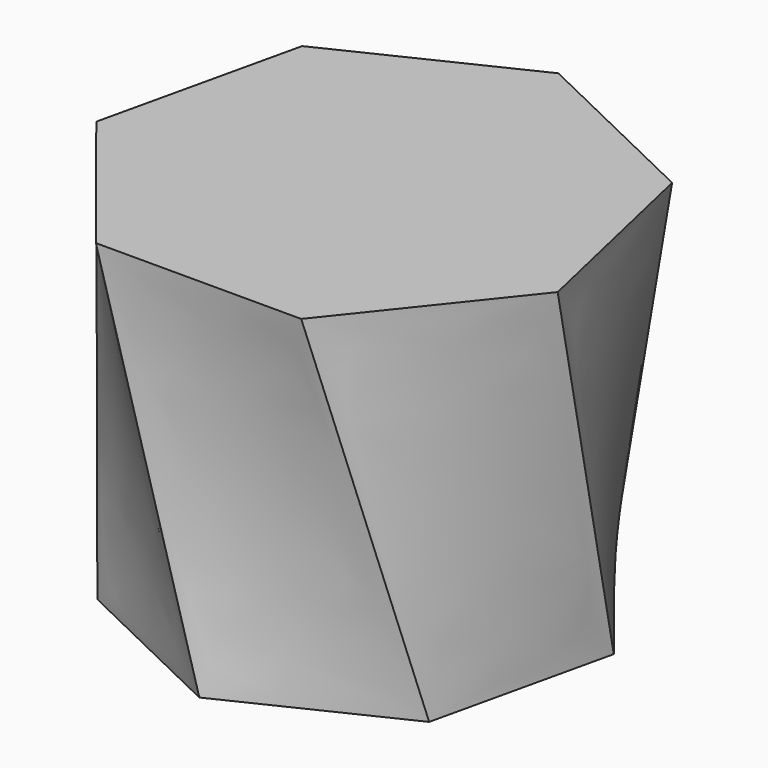
from build123d import *


with BuildPart() as f3:
    # F0 (on Top) → F3 section 0
    with BuildSketch(Plane.XY):
        Polygon((19.112735, 39.688002), (-19.112735, 39.688002), (-42.945925, 9.802127), (-34.439958, -27.46495), (0, -44.050359), (34.439958, -27.46495), (42.945925, 9.802127), align=None)
    # F2 (on offset) → F3 section 1
    with BuildSketch(Plane.XY.offset(76.2)):
        Polygon((-21.311005, -44.252757), (21.311005, -44.252757), (47.885393, -10.929528), (38.401103, 30.623858), (0, 49.116855), (-38.401103, 30.623858), (-47.885393, -10.929528), align=None)
    loft()


solid = f3.part
